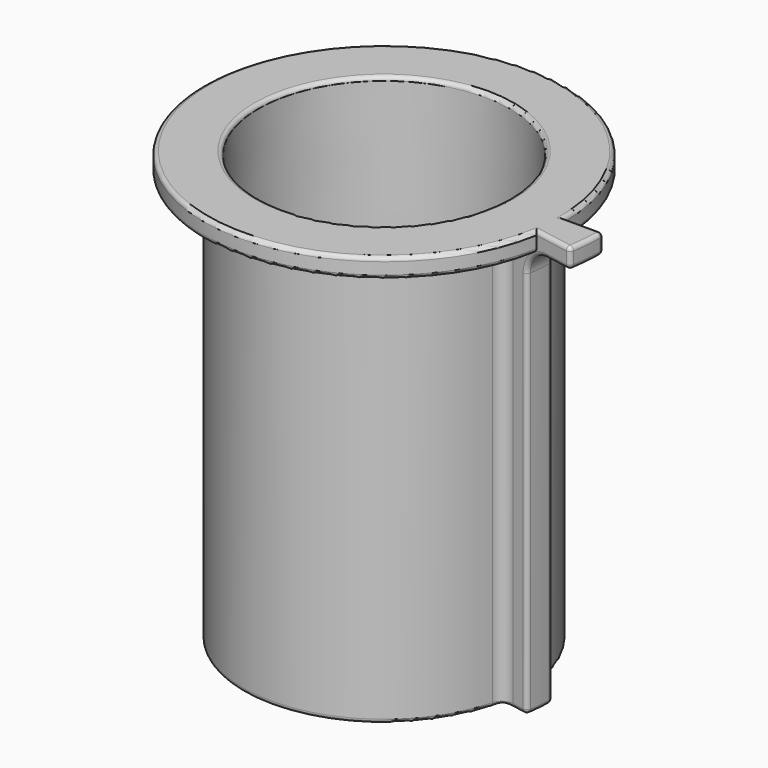
from build123d import *

# Parameters (mm, degrees)
REVOLUTION002_ANGLE = -10
FILLET002_R         = 1
FILLET003_R         = 1
FILLET004_R         = 3
FILLET005_R         = 1.5902


with BuildPart() as part:
    # Sketch001 → Revolution001 (revolve)
    with BuildSketch(Plane.XZ):
        Polygon((32.15, 55), (32, 10), (30.3998, 10), (22.5, -10), (22.5, -55), (36, -55), (36, 55), align=None)
    revolve(axis=Axis((0, 0, 0), (0, 0, 1)))

    # Sketch002 → Revolution002 (revolve)
    with BuildSketch(Plane.XZ):
        with BuildLine():
            Line((36, 55), (56, 55))
            Line((56, 55), (56, 50))
            Line((56, 50), (49, 50))
            ThreePointArc((49, 50), (44.757359, 48.242641), (43, 44))
            Line((43, 44), (43, -55))
            Line((43, -55), (36, -55))
            Line((36, -55), (36, 55))
        make_face()
    revolve(axis=Axis((0, 0, 0), (0, 0, 1)), revolution_arc=REVOLUTION002_ANGLE)

    # Sketch003 → Revolution003 (revolve)
    with BuildSketch(Plane.XZ):
        with BuildLine():
            Line((36, 55), (46, 55))
            Line((46, 55), (46, 51))
            ThreePointArc((45, 50), (45.707107, 50.292893), (46, 51))
            Line((45, 50), (36, 50))
            Line((36, 50), (36, 55))
        make_face()
    revolve(axis=Axis((0, 0, 0), (0, 0, 1)))

    # Fillet002
    fillet002_edges = [part.edges().sort_by_distance(p)[0] for p in [
        (44.077394, -7.772034, 48.242641),
        (44.757359, 0, 48.242641),
        (55.149234, -9.724298, 52.5),
        (56, 0, 52.5),
        (55.786903, -4.880722, 50),
    ]]
    fillet(fillet002_edges, radius=FILLET002_R)

    # Fillet003
    fillet003_edges = [part.edges().sort_by_distance(p)[0] for p in [
        (-45.824956, 4.009164, 55),
        (49.728315, -8.768444, 55),
        (55.786903, -4.880722, 55),
        (54.910121, -9.378167, 55),
        (50.495454, 0, 55),
        (55.704414, -0.299351, 55),
        (-32.15, 0, 55),
        (-35.863009, 3.137607, -55),
        (38.40164, -6.771245, -55),
        (42.107137, -7.118613, -55),
        (42.836372, -3.747697, -55),
        (42.703569, -0.301362, -55),
        (38.994047, 0, -55),
        (-22.5, 0, -55),
    ]]
    fillet(fillet003_edges, radius=FILLET003_R)

    # Fillet004
    fillet004_edges = [part.edges().sort_by_distance(p)[0] for p in [
        (35.453079, -6.251334, -2),
        (36, 0, -2),
    ]]
    fillet(fillet004_edges, radius=FILLET004_R)

    # Fillet005
    fillet005_edges = [part.edges().sort_by_distance(p)[0] for p in [
        (-32, 0, 10),
    ]]
    fillet(fillet005_edges, radius=FILLET005_R)


solid = part.part
